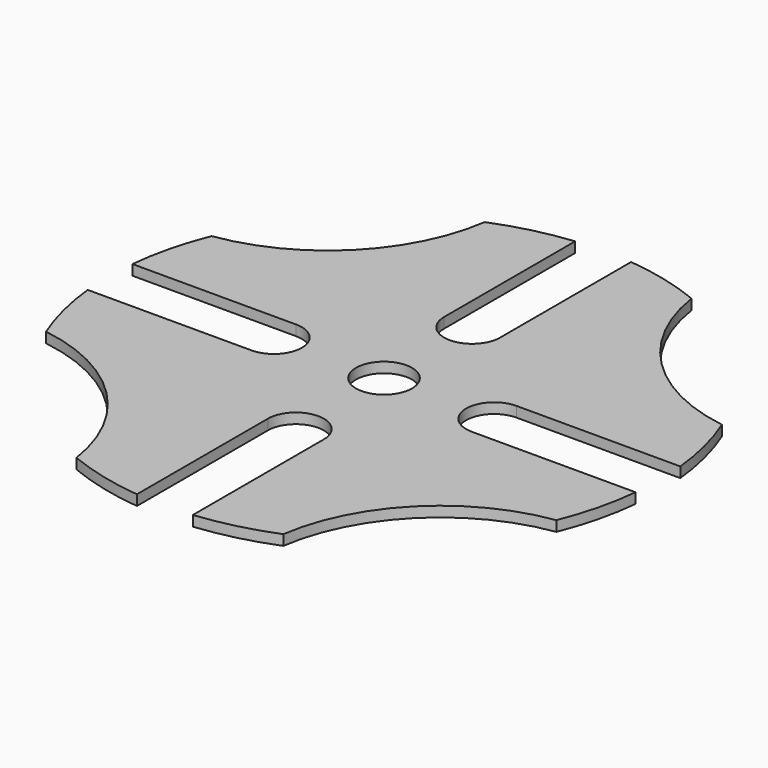
from build123d import *

# Parameters (mm, degrees)
F0_R     = 6.4516
F1_DEPTH = 2.38125


with BuildPart() as f1:
    # F0 (on Top) → F1 (new body)
    with BuildSketch(Plane.XY):
        with BuildLine():
            ThreePointArc((-23.855216, 58.848778), (-35.568511, 35.568511), (-58.848778, 23.855216))
            ThreePointArc((-58.848778, 23.855216), (-61.627534, 15.306765), (-63.171409, 6.4516))
            Line((-63.171409, 6.4516), (-25.4, 6.4516))
            ThreePointArc((-25.4, 6.4516), (-18.9484, 0), (-25.4, -6.4516))
            Line((-25.4, -6.4516), (-63.171409, -6.4516))
            ThreePointArc((-63.171409, -6.4516), (-61.627534, -15.306765), (-58.848778, -23.855216))
            ThreePointArc((-58.848778, -23.855216), (-35.568511, -35.568511), (-23.855216, -58.848778))
            ThreePointArc((-23.855216, -58.848778), (-15.306765, -61.627534), (-6.4516, -63.171409))
            Line((-6.4516, -63.171409), (-6.4516, -25.4))
            ThreePointArc((-6.4516, -25.4), (0, -18.9484), (6.4516, -25.4))
            Line((6.4516, -25.4), (6.4516, -63.171409))
            ThreePointArc((6.4516, -63.171409), (15.306765, -61.627534), (23.855216, -58.848778))
            ThreePointArc((23.855216, -58.848778), (35.568511, -35.568511), (58.848778, -23.855216))
            ThreePointArc((58.848778, -23.855216), (61.627534, -15.306765), (63.171409, -6.4516))
            Line((63.171409, -6.4516), (25.4, -6.4516))
            ThreePointArc((25.4, -6.4516), (18.9484, 0), (25.4, 6.4516))
            Line((25.4, 6.4516), (63.171409, 6.4516))
            ThreePointArc((63.171409, 6.4516), (61.627534, 15.306765), (58.848778, 23.855216))
            ThreePointArc((58.848778, 23.855216), (35.568511, 35.568511), (23.855216, 58.848778))
            ThreePointArc((23.855216, 58.848778), (15.306765, 61.627534), (6.4516, 63.171409))
            Line((6.4516, 63.171409), (6.4516, 25.4))
            ThreePointArc((6.4516, 25.4), (0, 18.9484), (-6.4516, 25.4))
            Line((-6.4516, 25.4), (-6.4516, 63.171409))
            ThreePointArc((-6.4516, 63.171409), (-15.306765, 61.627534), (-23.855216, 58.848778))
        make_face()
        Circle(F0_R, mode=Mode.SUBTRACT)
    extrude(amount=F1_DEPTH)


solid = f1.part
